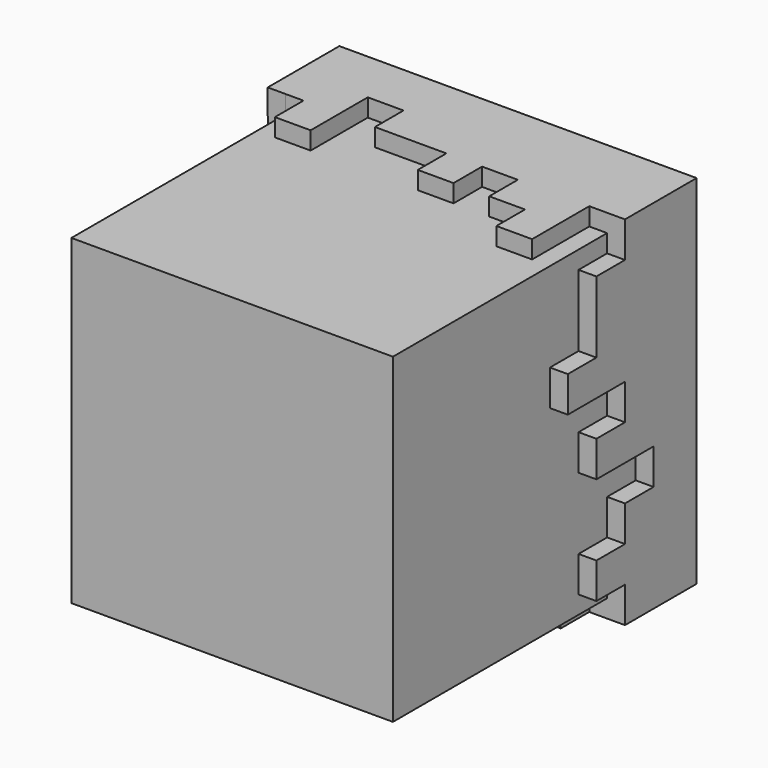
from build123d import *

# Parameters (mm, degrees)
F0_W     = 50.8
F0_H     = 50.8
F1_DEPTH = 50.8
F3_DEPTH = 2.54
F5_DEPTH = 2.54
F7_DEPTH = 2.54
F9_DEPTH = 2.54


with BuildPart() as f1:
    # F0 (on Front) → F1 (new body)
    with BuildSketch(Plane.XZ):
        with Locations((-4.556354, -11.571446)):
            Rectangle(F0_W, F0_H)
        with Locations((-4.556354, -11.571446)):
            Rectangle(F0_W, F0_H)
    extrude(amount=F1_DEPTH)

    # F2 (on face) → F3 (cut)
    with BuildSketch(Plane.XY.offset(13.828554)):
        Polygon((-24.876354, -12.728567), (-29.956354, -12.728567), (-29.956354, -50.8), (20.843646, -50.8), (20.843646, -12.728567), (15.763646, -12.728567), (15.763646, -22.888567), (10.683646, -22.888567), (10.683646, -17.808567), (5.603646, -17.808567), (5.603646, -12.728567), (0.523646, -12.728567), (0.523646, -17.808567), (-4.556354, -17.808567), (-4.556354, -12.728567), (-9.636354, -12.728567), (-14.716354, -12.728567), (-14.716354, -7.648567), (-19.796354, -7.648567), (-19.796354, -17.808567), (-24.876354, -17.808567), align=None)
    extrude(amount=-F3_DEPTH, mode=Mode.SUBTRACT)

    # F4 (on face) → F5 (cut)
    with BuildSketch(Plane.YZ.offset(20.843646)):
        Polygon((-12.728567, 8.748554), (-12.728567, 11.288554), (-50.8, 11.288554), (-50.8, -36.971446), (-12.728567, -36.971446), (-12.728567, -31.891446), (-17.808567, -31.891446), (-17.808567, -26.811446), (-12.728567, -26.811446), (-12.728567, -21.731446), (-7.648567, -21.731446), (-7.648567, -16.651446), (-12.728567, -16.651446), (-17.808567, -16.651446), (-17.808567, -11.571446), (-12.728567, -11.571446), (-12.728567, -6.491446), (-22.888567, -6.491446), (-22.888567, -1.411446), (-17.808567, -1.411446), (-17.808567, 3.668554), (-17.808567, 8.748554), align=None)
    extrude(amount=-F5_DEPTH, mode=Mode.SUBTRACT)

    # F6 (on face) → F7 (cut)
    with BuildSketch(Plane(origin=(0, 0, -36.971446), x_dir=(1, 0, 0), z_dir=(0, 0, -1))):
        Polygon((15.763646, 12.728567), (18.303646, 12.728567), (18.303646, 50.8), (-29.956354, 50.8), (-29.956354, 22.881104), (-24.876354, 22.881104), (-24.876354, 17.801104), (-19.796354, 17.801104), (-19.796354, 7.648567), (-14.716354, 7.648567), (-14.716354, 17.801104), (-9.636354, 17.801104), (-9.636354, 12.728567), (-4.556354, 12.728567), (-4.556354, 17.801104), (0.523646, 17.801104), (0.523646, 12.728567), (5.603646, 12.728567), (5.603646, 7.648567), (10.683646, 7.648567), (10.683646, 12.728567), (10.683646, 17.801104), (15.763646, 17.801104), align=None)
    extrude(amount=-F7_DEPTH, mode=Mode.SUBTRACT)

    # F8 (on face) → F9 (cut)
    with BuildSketch(Plane(origin=(-29.956354, 0, 0), x_dir=(0, -1, 0), z_dir=(-1, 0, 0))):
        Polygon((22.881104, -31.891446), (22.881104, -34.431446), (50.8, -34.431446), (50.8, 11.288554), (12.728567, 11.288554), (12.728567, 13.828554), (12.721104, 3.668554), (17.801104, 3.668554), (17.801104, -1.411446), (22.881104, -1.411446), (22.881104, -6.491446), (17.801104, -6.491446), (17.801104, -11.571446), (17.801104, -16.651446), (12.721104, -16.651446), (12.721104, -26.811446), (17.801104, -26.811446), (17.801104, -31.891446), align=None)
    extrude(amount=-F9_DEPTH, mode=Mode.SUBTRACT)


solid = f1.part
